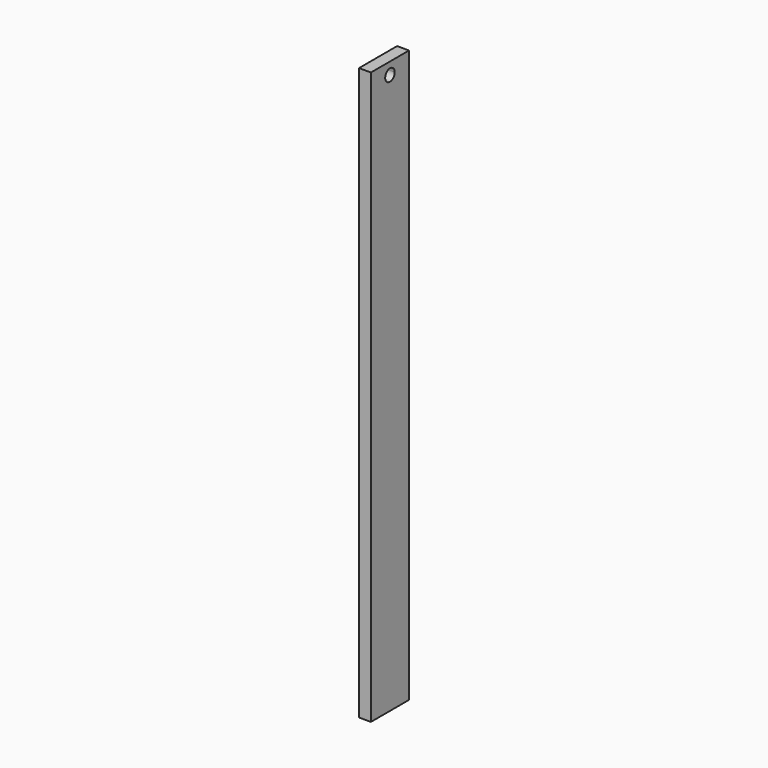
from build123d import *

# Parameters (mm, degrees)
F1_DEPTH = 25.4


with BuildPart() as f1:
    # F0 (on Right) → F1 (new body)
    with BuildSketch(Plane.YZ):
        Polygon((50.8, 0), (0, 0), (-50.8, 0), (-50.8, -1219.2), (50.8, -1219.2), align=None)
        with BuildLine():
            ThreePointArc((12.7, -25.4), (-8.9802561211, -34.3802561211), (0, -12.7))
            ThreePointArc((0, -12.7), (8.9802561211, -16.4197438789), (12.7, -25.4))
        make_face(mode=Mode.SUBTRACT)
    extrude(amount=F1_DEPTH)


solid = f1.part
